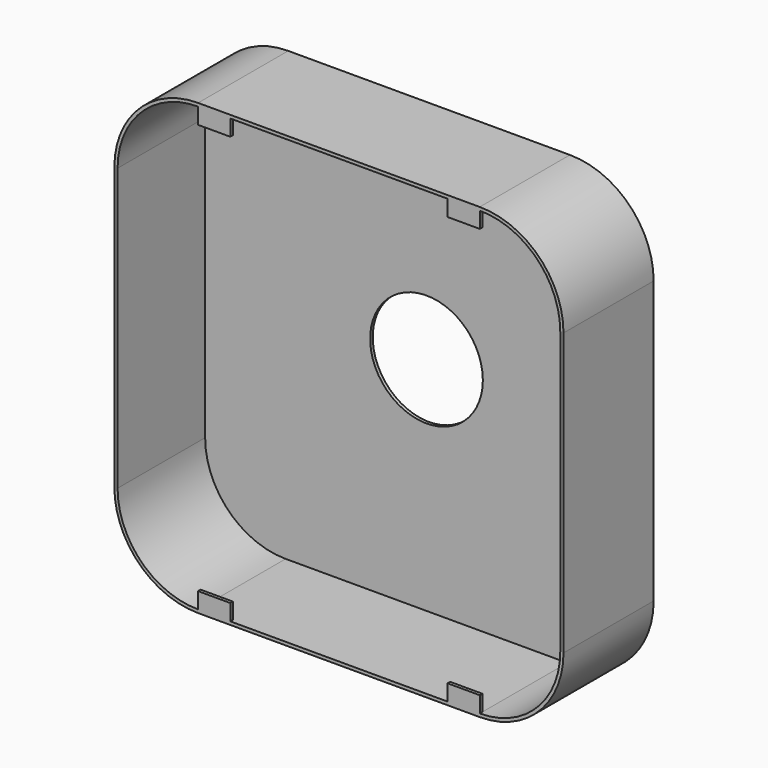
from build123d import *

# Parameters (mm, degrees)
F0_R     = 7
F1_DEPTH = 0.4
F3_DEPTH = 14
F5_W     = 4
F5_H     = 2.4
F6_DEPTH = 0.4


with BuildPart() as f1:
    # F0 (on Front) → F1 (new body)
    with BuildSketch(Plane.XZ):
        with BuildLine():
            Line((-17.5, -27.5), (17.5, -27.5))
            ThreePointArc((17.5, -27.5), (24.571068, -24.571068), (27.5, -17.5))
            Line((27.5, -17.5), (27.5, 17.5))
            ThreePointArc((27.5, 17.5), (24.571068, 24.571068), (17.5, 27.5))
            Line((17.5, 27.5), (-17.5, 27.5))
            ThreePointArc((-17.5, 27.5), (-24.571068, 24.571068), (-27.5, 17.5))
            Line((-27.5, 17.5), (-27.5, -17.5))
            ThreePointArc((-27.5, -17.5), (-24.571068, -24.571068), (-17.5, -27.5))
        make_face()
        Circle(F0_R, mode=Mode.SUBTRACT)
    extrude(amount=F1_DEPTH)

    # F2 (on Front) → F3 (join)
    with BuildSketch(Plane.XZ):
        with BuildLine():
            ThreePointArc((27.9, 17.5), (24.853911, 24.853911), (17.5, 27.9))
            Line((17.5, 27.9), (-17.5, 27.9))
            ThreePointArc((-17.5, 27.9), (-24.853911, 24.853911), (-27.9, 17.5))
            Line((-27.9, 17.5), (-27.9, -17.5))
            ThreePointArc((-27.9, -17.5), (-24.853911, -24.853911), (-17.5, -27.9))
            Line((-17.5, -27.9), (17.5, -27.9))
            ThreePointArc((17.5, -27.9), (24.853911, -24.853911), (27.9, -17.5))
            Line((27.9, -17.5), (27.9, 17.5))
        make_face()
        with BuildLine():
            ThreePointArc((27.5, -17.5), (24.571068, -24.571068), (17.5, -27.5))
            Line((17.5, -27.5), (-17.5, -27.5))
            ThreePointArc((-17.5, -27.5), (-24.571068, -24.571068), (-27.5, -17.5))
            Line((-27.5, -17.5), (-27.5, 17.5))
            ThreePointArc((-27.5, 17.5), (-24.571068, 24.571068), (-17.5, 27.5))
            Line((-17.5, 27.5), (17.5, 27.5))
            ThreePointArc((17.5, 27.5), (24.571068, 24.571068), (27.5, 17.5))
            Line((27.5, 17.5), (27.5, -17.5))
        make_face(mode=Mode.SUBTRACT)
    extrude(amount=F3_DEPTH)

    # F5 (on face) → F6 (join)
    with BuildSketch(Plane(origin=(0, -14, 0), x_dir=(-1, 0, 0), z_dir=(0, 1, 0))):
        with Locations((-15.5, -26.7)):
            Rectangle(F5_W, F5_H)
        with Locations((15.5, -26.7)):
            Rectangle(F5_W, F5_H)
        with Locations((15.5, 26.7)):
            Rectangle(F5_W, F5_H)
        with Locations((-15.5, 26.7)):
            Rectangle(F5_W, F5_H)
    extrude(amount=F6_DEPTH)


solid = f1.part
